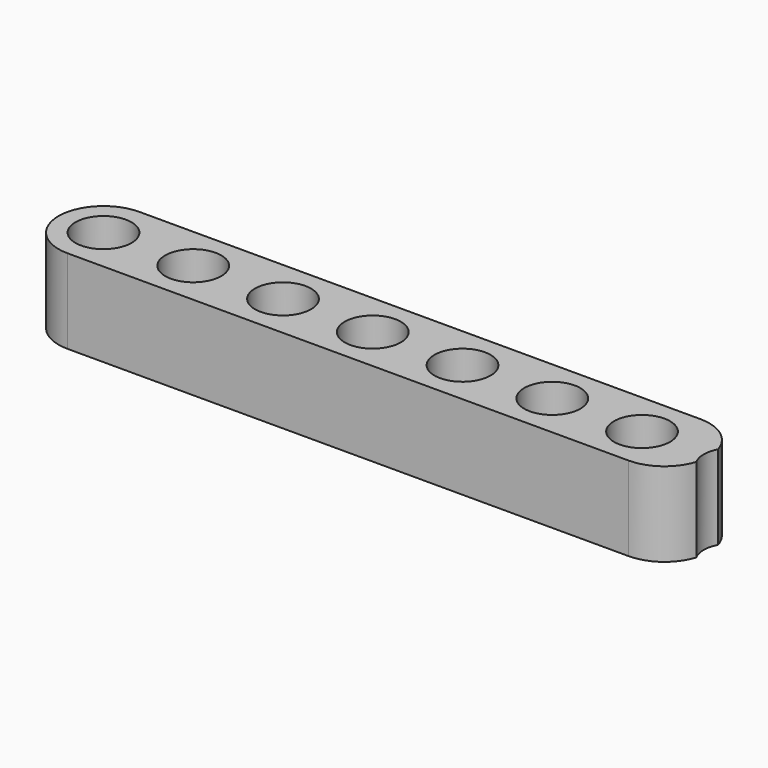
from build123d import *

# Parameters (mm, degrees)
F0_R     = 2.5
F1_DEPTH = 3.75


with BuildPart() as f1:
    # F0 (on Top) → F1 (new body, symmetric)
    with BuildSketch(Plane.XY):
        with BuildLine():
            ThreePointArc((53.8125, -1.210307), (53.5, 0), (53.8125, 1.210307))
            ThreePointArc((53.8125, 1.210307), (52.362072, 3.228098), (50, 4))
            Line((50, 4), (0, 4))
            ThreePointArc((0, 4), (-4, 0), (0, -4))
            Line((0, -4), (50, -4))
            ThreePointArc((50, -4), (52.362072, -3.228098), (53.8125, -1.210307))
        make_face()
        Circle(F0_R, mode=Mode.SUBTRACT)
        with Locations((8, 0)):
            Circle(F0_R, mode=Mode.SUBTRACT)
        with Locations((16, 0)):
            Circle(F0_R, mode=Mode.SUBTRACT)
        with Locations((24, 0)):
            Circle(F0_R, mode=Mode.SUBTRACT)
        with Locations((32, 0)):
            Circle(F0_R, mode=Mode.SUBTRACT)
        with Locations((40, 0)):
            Circle(F0_R, mode=Mode.SUBTRACT)
        with Locations((48, 0)):
            Circle(F0_R, mode=Mode.SUBTRACT)
    extrude(amount=F1_DEPTH, both=True)


solid = f1.part
